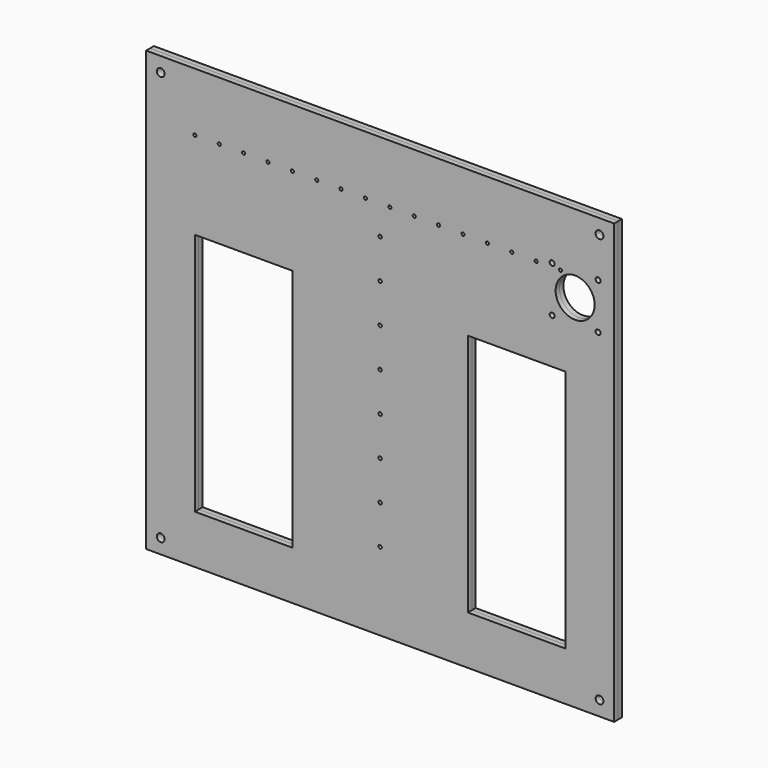
from build123d import *

# Parameters (mm, degrees)
F0_W     = 480
F0_H     = 450
F0_W_2   = 100
F0_H_2   = 250
F0_R     = 1.75
F0_R_2   = 1.6
F1_DEPTH = 5
F2_DEPTH = 5
F3_R     = 2.55
F3_R_2   = 20
F3_R_3   = 4
F4_DEPTH = 10.001


with BuildPart() as f1:
    # F0 (on Front) → F1 (new body)
    with BuildSketch(Plane.XZ):
        with Locations((240, 225)):
            Rectangle(F0_W, F0_H)
        with Locations((100, 175)):
            Rectangle(F0_W_2, F0_H_2, mode=Mode.SUBTRACT)
        with Locations((240, 80)):
            Circle(F0_R, mode=Mode.SUBTRACT)
        with Locations((240, 120)):
            Circle(F0_R, mode=Mode.SUBTRACT)
        with Locations((240, 160)):
            Circle(F0_R, mode=Mode.SUBTRACT)
        with Locations((240, 200)):
            Circle(F0_R, mode=Mode.SUBTRACT)
        with Locations((380, 175)):
            Rectangle(F0_W_2, F0_H_2, mode=Mode.SUBTRACT)
        with Locations((50, 390)):
            Circle(F0_R_2, mode=Mode.SUBTRACT)
        with Locations((75, 390)):
            Circle(F0_R_2, mode=Mode.SUBTRACT)
        with Locations((100, 390)):
            Circle(F0_R_2, mode=Mode.SUBTRACT)
        with Locations((125, 390)):
            Circle(F0_R_2, mode=Mode.SUBTRACT)
        with Locations((150, 390)):
            Circle(F0_R_2, mode=Mode.SUBTRACT)
        with Locations((175, 390)):
            Circle(F0_R_2, mode=Mode.SUBTRACT)
        with Locations((200, 390)):
            Circle(F0_R_2, mode=Mode.SUBTRACT)
        with Locations((225, 390)):
            Circle(F0_R_2, mode=Mode.SUBTRACT)
        with Locations((240, 240)):
            Circle(F0_R, mode=Mode.SUBTRACT)
        with Locations((240, 280)):
            Circle(F0_R, mode=Mode.SUBTRACT)
        with Locations((240, 320)):
            Circle(F0_R, mode=Mode.SUBTRACT)
        with Locations((240, 360)):
            Circle(F0_R, mode=Mode.SUBTRACT)
        with Locations((250, 390)):
            Circle(F0_R_2, mode=Mode.SUBTRACT)
        with Locations((275, 390)):
            Circle(F0_R_2, mode=Mode.SUBTRACT)
        with Locations((300, 390)):
            Circle(F0_R_2, mode=Mode.SUBTRACT)
        with Locations((325, 390)):
            Circle(F0_R_2, mode=Mode.SUBTRACT)
        with Locations((350, 390)):
            Circle(F0_R_2, mode=Mode.SUBTRACT)
        with Locations((375, 390)):
            Circle(F0_R_2, mode=Mode.SUBTRACT)
        with Locations((400, 390)):
            Circle(F0_R_2, mode=Mode.SUBTRACT)
        with Locations((425, 390)):
            Circle(F0_R_2, mode=Mode.SUBTRACT)
    extrude(amount=F1_DEPTH)


with BuildPart() as f2:
    # F0 (on Front) → F2 (new body)
    with BuildSketch(Plane.XZ):
        with Locations((240, 225)):
            Rectangle(F0_W, F0_H)
        with Locations((100, 175)):
            Rectangle(F0_W_2, F0_H_2, mode=Mode.SUBTRACT)
        with Locations((240, 80)):
            Circle(F0_R, mode=Mode.SUBTRACT)
        with Locations((240, 120)):
            Circle(F0_R, mode=Mode.SUBTRACT)
        with Locations((240, 160)):
            Circle(F0_R, mode=Mode.SUBTRACT)
        with Locations((240, 200)):
            Circle(F0_R, mode=Mode.SUBTRACT)
        with Locations((380, 175)):
            Rectangle(F0_W_2, F0_H_2, mode=Mode.SUBTRACT)
        with Locations((50, 390)):
            Circle(F0_R_2, mode=Mode.SUBTRACT)
        with Locations((75, 390)):
            Circle(F0_R_2, mode=Mode.SUBTRACT)
        with Locations((100, 390)):
            Circle(F0_R_2, mode=Mode.SUBTRACT)
        with Locations((125, 390)):
            Circle(F0_R_2, mode=Mode.SUBTRACT)
        with Locations((150, 390)):
            Circle(F0_R_2, mode=Mode.SUBTRACT)
        with Locations((175, 390)):
            Circle(F0_R_2, mode=Mode.SUBTRACT)
        with Locations((200, 390)):
            Circle(F0_R_2, mode=Mode.SUBTRACT)
        with Locations((225, 390)):
            Circle(F0_R_2, mode=Mode.SUBTRACT)
        with Locations((240, 240)):
            Circle(F0_R, mode=Mode.SUBTRACT)
        with Locations((240, 280)):
            Circle(F0_R, mode=Mode.SUBTRACT)
        with Locations((240, 320)):
            Circle(F0_R, mode=Mode.SUBTRACT)
        with Locations((240, 360)):
            Circle(F0_R, mode=Mode.SUBTRACT)
        with Locations((250, 390)):
            Circle(F0_R_2, mode=Mode.SUBTRACT)
        with Locations((275, 390)):
            Circle(F0_R_2, mode=Mode.SUBTRACT)
        with Locations((300, 390)):
            Circle(F0_R_2, mode=Mode.SUBTRACT)
        with Locations((325, 390)):
            Circle(F0_R_2, mode=Mode.SUBTRACT)
        with Locations((350, 390)):
            Circle(F0_R_2, mode=Mode.SUBTRACT)
        with Locations((375, 390)):
            Circle(F0_R_2, mode=Mode.SUBTRACT)
        with Locations((400, 390)):
            Circle(F0_R_2, mode=Mode.SUBTRACT)
        with Locations((425, 390)):
            Circle(F0_R_2, mode=Mode.SUBTRACT)
    extrude(amount=-F2_DEPTH)


with BuildPart() as f4_tool:
    # F3 (on face) → F4 (new body, through all)
    with BuildSketch(Plane.XZ.offset(5)):
        with Locations((463.57, 346.43)):
            Circle(F3_R)
        with Locations((416.43, 346.43)):
            Circle(F3_R)
        with Locations((463.57, 393.57)):
            Circle(F3_R)
        with Locations((416.43, 393.57)):
            Circle(F3_R)
        with Locations((440, 370)):
            Circle(F3_R_2)
        with Locations((15, 435)):
            Circle(F3_R_3)
        with Locations((465, 435)):
            Circle(F3_R_3)
        with Locations((465, 15)):
            Circle(F3_R_3)
        with Locations((15, 15)):
            Circle(F3_R_3)
    extrude(amount=-F4_DEPTH)


with BuildPart() as f1_1:
    add(f1.part)

    # F4: cut by f4_tool
    add(f4_tool.part, mode=Mode.SUBTRACT)


with BuildPart() as f2_1:
    add(f2.part)

    # F4: cut by f4_tool
    add(f4_tool.part, mode=Mode.SUBTRACT)


solid = Compound([f1_1.part, f2_1.part])
